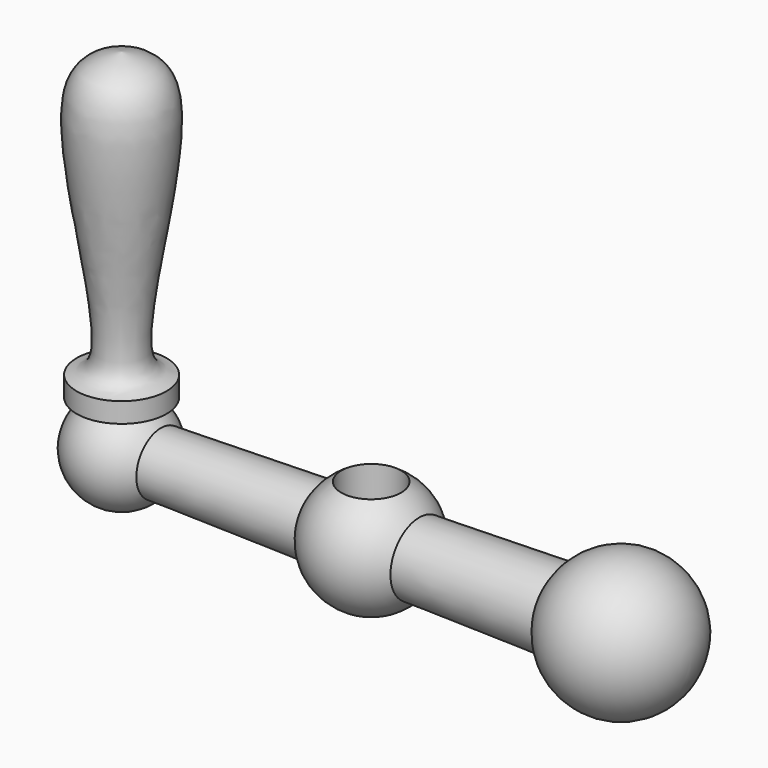
from build123d import *

# Parameters (mm, degrees)
F3_R          = 3
F4_DEPTH      = 25
F4_DEPTH_BACK = 25


with BuildPart() as f1:
    # F0 (on Front) → F1 (revolve)
    with BuildSketch(Plane.XZ):
        Polygon((-20, 0), (-6, 0), (0, 0), (6, 0), (18, 0), (25, 0), (25, 4), (-25, 3), (-25, 0), align=None)
    revolve(axis=Axis((1, 0, 0), (1, 0, 0)))

    # F0 (on Front) → F2 (revolve)
    with BuildSketch(Plane.XZ):
        with BuildLine():
            ThreePointArc((-30, 0), (-25, -5), (-20, 0))
            Line((-20, 0), (-25, 0))
            Line((-25, 0), (-30, 0))
        make_face()
        with BuildLine():
            Line((0, 0), (-6, 0))
            ThreePointArc((-6, 0), (0, -6), (6, 0))
            Line((6, 0), (0, 0))
        make_face()
        with BuildLine():
            Line((25, 0), (18, 0))
            ThreePointArc((18, 0), (25, -7), (32, 0))
            Line((32, 0), (25, 0))
        make_face()
    revolve(axis=Axis((1, 0, 0), (1, 0, 0)))

    # F3 (on Top) → F4 (cut, two sides)
    with BuildSketch(Plane.XY) as f4_sk:
        Circle(F3_R)
    extrude(amount=-F4_DEPTH, mode=Mode.SUBTRACT)
    extrude(f4_sk.sketch, amount=F4_DEPTH_BACK, mode=Mode.SUBTRACT)

    # F5 (on Front) → F6 (revolve)
    with BuildSketch(Plane.XZ):
        with BuildLine():
            Line((-27.5, 0), (-25, 0))
            Line((-25, 0), (-25, 35))
            add(Edge.make_bspline(
                [(-29.5, 6.5), (-28.6199930521, 6.710748409), (-25.1690403248, 7.5371996075), (-32.8021438158, 33.1401397633), (-26.9417712134, 34.537124263), (-25, 35)],
                knots=[0, 0, 0, 0, 0.1862478232, 0.7303719987, 1, 1, 1, 1], degree=3))
            Line((-29.5, 6.5), (-29.5, 4.5))
            Line((-29.5, 4.5), (-27.5, 4.5))
            Line((-27.5, 4.5), (-27.5, 0))
        make_face()
    revolve(axis=Axis((-25, 0, 17.5), (0, 0, 1)))


solid = f1.part
